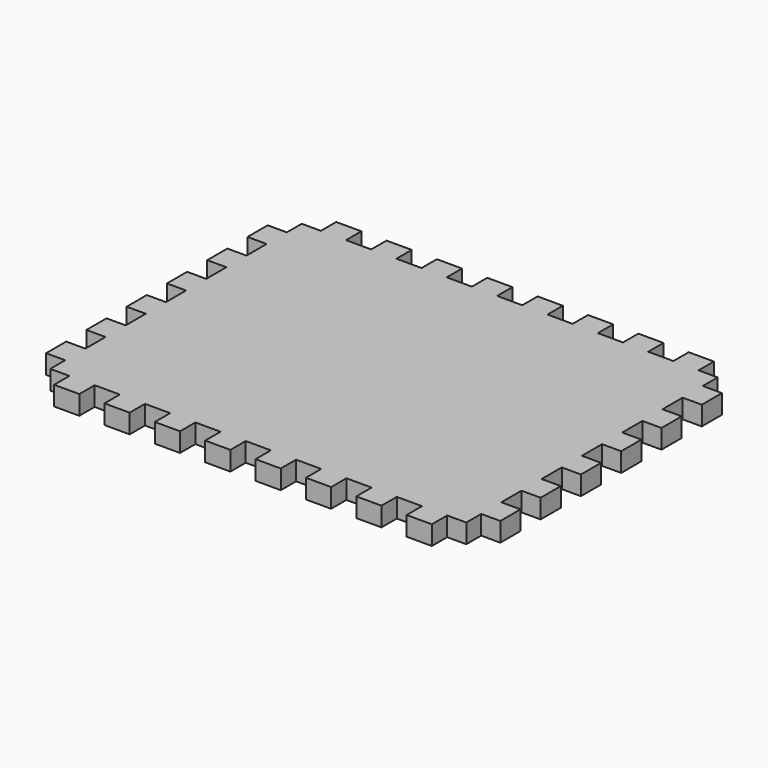
from build123d import *

# Parameters (mm, degrees)
F1_DEPTH = 9.652


with BuildPart() as f1:
    # F0 (on Top) → F1 (new body)
    with BuildSketch(Plane.XY):
        Polygon((32.004, 0), (19.304, 0), (19.304, -9.652), (9.652, -9.652), (9.652, -19.05), (0, -19.05), (0, -31.75), (9.652, -31.75), (9.652, -44.45), (0, -44.45), (0, -57.15), (9.652, -57.15), (9.652, -69.85), (0, -69.85), (0, -82.55), (9.652, -82.55), (9.652, -95.25), (0, -95.25), (0, -107.95), (9.652, -107.95), (9.652, -120.65), (0, -120.65), (0, -133.35), (9.652, -133.35), (9.652, -146.05), (0, -146.05), (0, -158.75), (9.652, -158.75), (9.652, -168.148), (19.304, -168.148), (19.304, -177.8), (32.004, -177.8), (32.004, -168.148), (44.704, -168.148), (44.704, -177.8), (57.404, -177.8), (57.404, -168.148), (70.104, -168.148), (70.104, -177.8), (82.804, -177.8), (82.804, -168.148), (95.504, -168.148), (95.504, -177.8), (108.204, -177.8), (108.204, -168.148), (120.904, -168.148), (120.904, -177.8), (133.604, -177.8), (133.604, -168.148), (146.304, -168.148), (146.304, -177.8), (159.004, -177.8), (159.004, -168.148), (171.704, -168.148), (171.704, -177.8), (184.404, -177.8), (184.404, -168.148), (197.104, -168.148), (197.104, -177.8), (209.804, -177.8), (209.804, -168.148), (219.456, -168.148), (219.456, -158.75), (229.108, -158.75), (229.108, -146.05), (219.456, -146.05), (219.456, -133.35), (229.108, -133.35), (229.108, -120.65), (219.456, -120.65), (219.456, -107.95), (229.108, -107.95), (229.108, -95.25), (219.456, -95.25), (219.456, -82.55), (229.108, -82.55), (229.108, -69.85), (219.456, -69.85), (219.456, -57.15), (229.108, -57.15), (229.108, -44.45), (219.456, -44.45), (219.456, -31.75), (229.108, -31.75), (229.108, -19.05), (219.456, -19.05), (219.456, -9.652), (209.804, -9.652), (209.804, 0), (197.104, 0), (197.104, -9.652), (184.404, -9.652), (184.404, 0), (171.704, 0), (171.704, -9.652), (159.004, -9.652), (159.004, 0), (146.304, 0), (146.304, -9.652), (133.604, -9.652), (133.604, 0), (120.904, 0), (120.904, -9.652), (108.204, -9.652), (108.204, 0), (95.504, 0), (95.504, -9.652), (82.804, -9.652), (82.804, 0), (70.104, 0), (70.104, -9.652), (57.404, -9.652), (57.404, 0), (44.704, 0), (44.704, -9.652), (32.004, -9.652), align=None)
    extrude(amount=F1_DEPTH)


solid = f1.part
